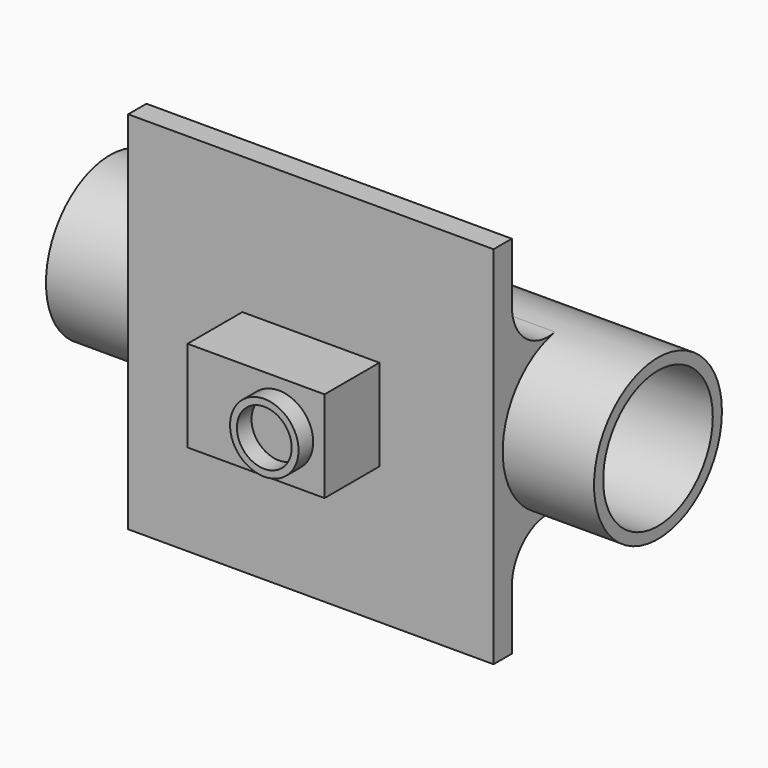
from build123d import *

# Parameters (mm, degrees)
F0_R          = 22.225
F1_DEPTH      = 76.2
F1_DEPTH_BACK = 76.2
F3_START      = 19.05
F2_W          = 101.6
F2_H          = 101.6
F3_DEPTH      = 6.35
F4_R          = 12.7
F5_W          = 38.1
F5_H          = 25.4
F6_DEPTH      = 19.05
F7_R          = 9.525
F7_R_2        = 7.62
F8_DEPTH      = 5.08
F9_R          = 19.05
F10_DEPTH     = 152.4


with BuildPart() as f1:
    # F0 (on Right) → F1 (new body, two sides)
    with BuildSketch(Plane.YZ) as f1_sk:
        Circle(F0_R)
    extrude(amount=F1_DEPTH)
    extrude(f1_sk.sketch, amount=-F1_DEPTH_BACK)

    # F2 (on Front) → F3 (join)
    with BuildSketch(Plane.XZ.offset(F3_START)):
        Rectangle(F2_W, F2_H)
    extrude(amount=F3_DEPTH)

    # F4
    f4_edges = [f1.edges().sort_by_distance(p)[0] for p in [
        (0, -19.05, 11.447625),
        (0, -19.05, -11.447625),
    ]]
    fillet(f4_edges, radius=F4_R)

    # F5 (on face) → F6 (join)
    with BuildSketch(Plane.XZ.offset(25.4)):
        Rectangle(F5_W, F5_H)
    extrude(amount=F6_DEPTH)

    # F7 (on face) → F8 (join)
    with BuildSketch(Plane.XZ.offset(44.45)):
        with Locations((6.35, 0)):
            Circle(F7_R)
        with Locations((6.35, 0)):
            Circle(F7_R_2, mode=Mode.SUBTRACT)
    extrude(amount=F8_DEPTH)

    # F9 (on face) → F10 (cut)
    with BuildSketch(Plane.YZ.offset(76.2)):
        Circle(F9_R)
    extrude(amount=-F10_DEPTH, mode=Mode.SUBTRACT)


solid = f1.part
